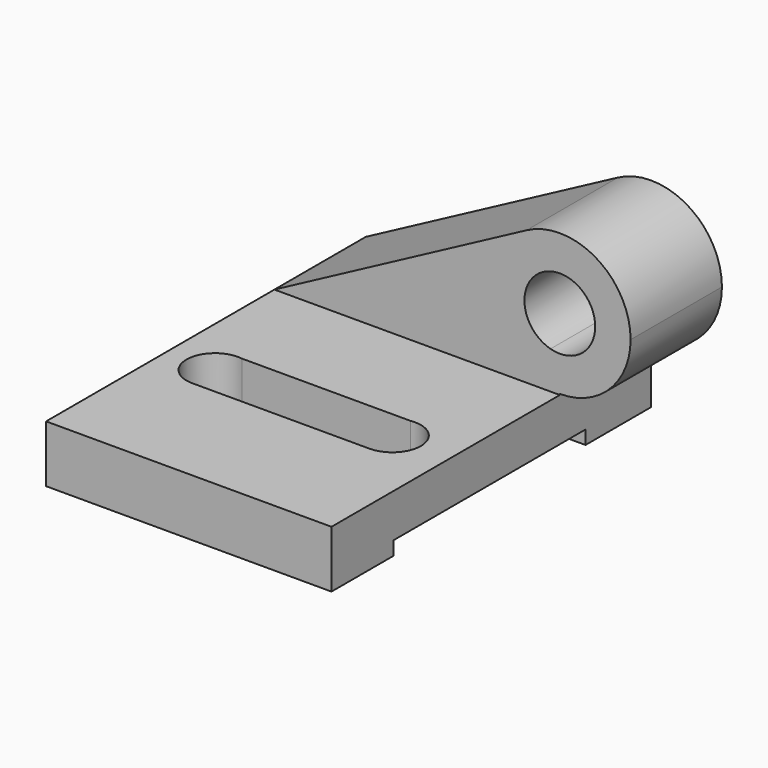
from build123d import *

# Parameters (mm, degrees)
F0_W     = 63.5
F0_H     = 12.7
F1_DEPTH = 25.4
F2_W     = 63.5
F2_H     = 12.7
F3_DEPTH = 63.5
F4_W     = 63.5
F4_H     = 53.356215
F5_DEPTH = 3.048
F7_DEPTH = 25.4


with BuildPart() as f1:
    # F0 (on Front) → F1 (new body)
    with BuildSketch(Plane.XZ):
        with Locations((-14.211346, 6.35)):
            Rectangle(F0_W, F0_H)
        with BuildLine():
            Line((10.138772, 42.563359), (-45.961346, 12.7))
            Line((-45.961346, 12.7), (17.538654, 12.7))
            Line((17.538654, 12.7), (17.485546, 12.914324))
            ThreePointArc((17.485546, 12.914324), (2.252939, 24.874567), (10.138772, 42.563359))
        make_face()
        with BuildLine():
            Line((12.158692, 34.41166), (10.138772, 42.563359))
            ThreePointArc((10.138772, 42.563359), (2.252939, 24.874567), (17.485546, 12.914324))
            Line((17.485546, 12.914324), (15.465626, 21.066023))
            ThreePointArc((15.465626, 21.066023), (9.895796, 26.768401), (12.158692, 34.41166))
        make_face()
        with BuildLine():
            ThreePointArc((33.286654, 28.662235), (25.646248, 42.162843), (10.138772, 42.563359))
            Line((10.138772, 42.563359), (12.158692, 34.41166))
            ThreePointArc((12.158692, 34.41166), (20.672187, 35.885866), (25.412654, 28.662235))
            ThreePointArc((25.412654, 28.662235), (22.31761, 22.404324), (15.465626, 21.066023))
            Line((15.465626, 21.066023), (17.485546, 12.914324))
            ThreePointArc((17.485546, 12.914324), (28.655379, 17.507956), (33.286654, 28.662235))
        make_face()
    extrude(amount=F1_DEPTH)

    # F2 (on face) → F3 (join)
    with BuildSketch(Plane.XZ.offset(25.4)):
        with Locations((-14.211346, 6.35)):
            Rectangle(F2_W, F2_H)
    extrude(amount=F3_DEPTH)

    # F4 (on face) → F5 (cut)
    with BuildSketch(Plane(origin=(0, 0, 0), x_dir=(1, 0, 0), z_dir=(0, 0, -1))):
        with Locations((-14.211346, 44.929125)):
            Rectangle(F4_W, F4_H)
    extrude(amount=-F5_DEPTH, mode=Mode.SUBTRACT)

    # F6 (on face) → F7 (cut)
    with BuildSketch(Plane.XY.offset(12.7)):
        with BuildLine():
            ThreePointArc((-34.139643, -49.201058), (-30.283279, -51.341679), (-28.751483, -55.47779))
            ThreePointArc((-28.751483, -55.47779), (-30.551195, -59.906941), (-34.930185, -61.825479))
            Line((-34.930185, -61.825479), (4.326623, -61.822998))
            ThreePointArc((4.326623, -61.822998), (-2.004218, -55.971033), (3.333617, -49.201058))
            Line((3.333617, -49.201058), (-34.139643, -49.201058))
        make_face()
        with BuildLine():
            ThreePointArc((-34.930185, -61.825479), (-30.551195, -59.906941), (-28.751483, -55.47779))
            ThreePointArc((-28.751483, -55.47779), (-30.283279, -51.341679), (-34.139643, -49.201058))
            ThreePointArc((-34.139643, -49.201058), (-41.426093, -54.910512), (-35.271977, -61.8255))
            Line((-35.271977, -61.8255), (-34.930185, -61.825479))
        make_face()
        with BuildLine():
            ThreePointArc((10.676221, -55.472998), (8.450507, -50.644668), (3.333617, -49.201058))
            ThreePointArc((3.333617, -49.201058), (-2.004218, -55.971033), (4.326623, -61.822998))
            ThreePointArc((4.326623, -61.822998), (8.816491, -59.962984), (10.676221, -55.472998))
        make_face()
    extrude(amount=-F7_DEPTH, mode=Mode.SUBTRACT)


solid = f1.part
